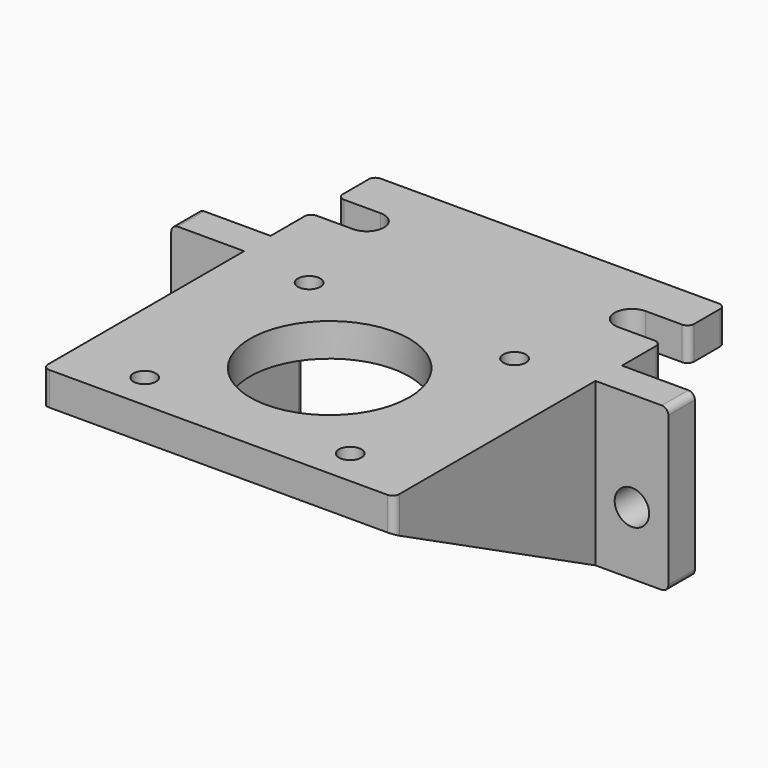
from build123d import *

# Parameters (mm, degrees)
SKETCH_R        = 12
SKETCH_R_2      = 1.7
PAD_DEPTH       = 24.5
POCKET_DEPTH    = 19.5
POCKET001_DEPTH = 64.001
POCKET002_DEPTH = 225.811705
SKETCH004_R     = 2.6
POCKET003_DEPTH = 225.811705
FILLET_R        = 1


with BuildPart() as part:
    # Sketch → Pad (new body)
    with BuildSketch(Plane.XY):
        Polygon((-26.5, -21), (26.5, -21), (26.5, 17), (37.5, 17), (37.5, 22), (26.5, 22), (26.5, 41.5), (-26.5, 41.5), (-26.5, 22), (-37.5, 22), (-37.5, 17), (-26.5, 17), align=None)
        Circle(SKETCH_R, mode=Mode.SUBTRACT)
        with Locations((-15.5, 15.5)):
            Circle(SKETCH_R_2, mode=Mode.SUBTRACT)
        with Locations((15.5, 15.5)):
            Circle(SKETCH_R_2, mode=Mode.SUBTRACT)
        with Locations((-15.5, -15.5)):
            Circle(SKETCH_R_2, mode=Mode.SUBTRACT)
        with Locations((15.5, -15.5)):
            Circle(SKETCH_R_2, mode=Mode.SUBTRACT)
    extrude(amount=PAD_DEPTH)

    # Sketch001 (on Face18 of Pad) → Pocket (cut)
    with BuildSketch(Plane(origin=(0, 0, 0), x_dir=(1, 0, 0), z_dir=(0, 0, -1))):
        Polygon((-26.5, -41.5), (26.5, -41.5), (26.5, -22), (21.5, -22), (21.5, 21), (-21.5, 21), (-21.5, -22), (-26.5, -22), align=None)
    extrude(amount=-POCKET_DEPTH, mode=Mode.SUBTRACT)

    # Sketch002 (on Face7 of Pocket) → Pocket001 (cut, through all)
    with BuildSketch(Plane.YZ.offset(26.5)):
        Polygon((17, 0), (-21, 0), (-21, 19.5), align=None)
    extrude(amount=-POCKET001_DEPTH, mode=Mode.SUBTRACT)

    # Sketch003 (on Face6 of Pocket001) → Pocket002 (cut, through all)
    with BuildSketch(Plane.XY.offset(24.5)):
        with BuildLine():
            Line((-26.5, 34.6), (-20, 34.6))
            ThreePointArc((-20, 29.4), (-17.4, 32), (-20, 34.6))
            Line((-20, 29.4), (-26.5, 29.4))
            Line((-26.5, 29.4), (-26.5, 34.6))
        make_face()
    pocket002 = extrude(amount=-POCKET002_DEPTH, mode=Mode.SUBTRACT)

    # Sketch004 (on Face27 of Pocket002) → Pocket003 (cut, through all)
    with BuildSketch(Plane.XZ.offset(-17)):
        with Locations((-32, 9.5)):
            Circle(SKETCH004_R)
    pocket003 = extrude(amount=-POCKET003_DEPTH, mode=Mode.SUBTRACT)

    # Mirrored: Pocket003 across Sketch004 V_Axis
    add(pocket003.mirror(Plane(origin=(0, 17, 0), x_dir=(0, -1, 0), z_dir=(1, 0, 0))), mode=Mode.SUBTRACT)

    # Mirrored001: Pocket002 across Sketch003 V_Axis
    add(pocket002.mirror(Plane(origin=(0, 0, 24.5), x_dir=(0, 0, 1), z_dir=(1, 0, 0))), mode=Mode.SUBTRACT)

    # Fillet
    fillet_edges = [part.edges().sort_by_distance(p)[0] for p in [
        (-26.5, 41.5, 22),
        (-26.5, 34.6, 22),
        (-26.5, 29.4, 22),
        (26.5, 34.6, 22),
        (26.5, 41.5, 22),
        (26.5, 29.4, 22),
        (-26.5, -21, 22),
        (26.5, -21, 22),
        (-21.5, 22, 9.75),
        (21.5, 22, 9.75),
        (-37.5, 19.5, 24.5),
        (37.5, 19.5, 24.5),
        (-37.5, 19.5, 0),
        (37.5, 19.5, 0),
    ]]
    fillet(fillet_edges, radius=FILLET_R)


solid = part.part
